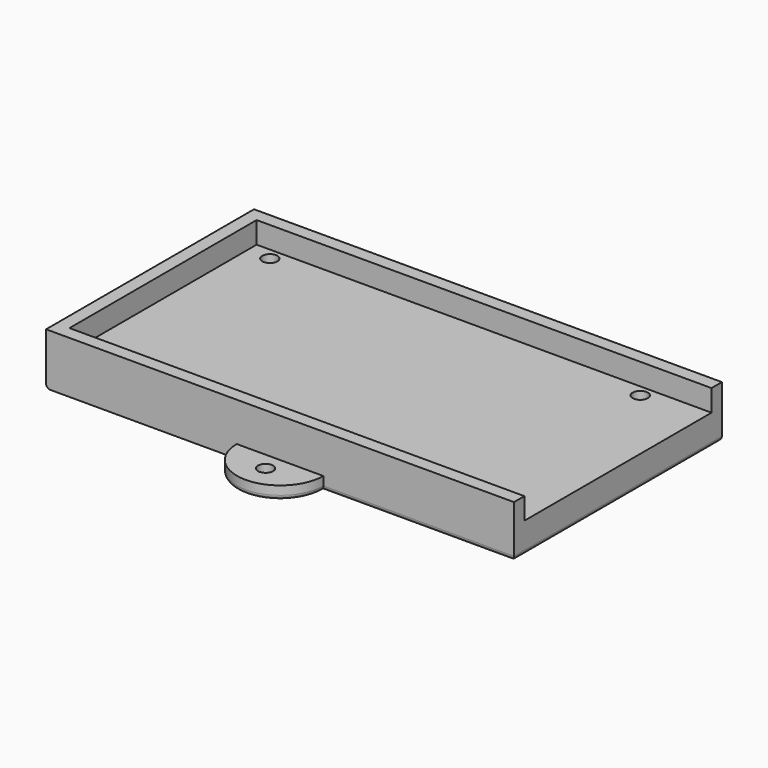
from build123d import *

# Parameters (mm, degrees)
F0_W     = 108
F0_H     = 60
F1_DEPTH = 7
F3_DEPTH = 5
F4_R     = 1.75
F5_DEPTH = 7.001
F7_DEPTH = 3
F8_R     = 1.75
F9_DEPTH = 3
F10_R    = 1


with BuildPart() as f1:
    # F0 (on Top) → F1 (new body)
    with BuildSketch(Plane.XY):
        Rectangle(F0_W, F0_H)
    extrude(amount=F1_DEPTH)

    # F2 (on face) → F3 (join)
    with BuildSketch(Plane.XY.offset(7)):
        Polygon((54, 30), (-54, 30), (-54, -30), (54, -30), (54, -27), (51, -27), (-51, -27), (-51, 27), (51, 27), (54, 27), align=None)
    extrude(amount=F3_DEPTH)

    # F4 (on face) → F5 (cut, through all)
    with BuildSketch(Plane.XY.offset(7)):
        with Locations((-45.75, 24.25)):
            Circle(F4_R)
        with Locations((39.75, 24.25)):
            Circle(F4_R)
    extrude(amount=-F5_DEPTH, mode=Mode.SUBTRACT)

    # F6 (on face) → F7 (cut)
    with BuildSketch(Plane(origin=(0, 0, 0), x_dir=(1, 0, 0), z_dir=(0, 0, -1))):
        Polygon((35.625, -21.8684301396), (35.625, -26.6315698604), (39.75, -29.0131397208), (43.875, -26.6315698604), (43.875, -21.8684301396), (39.75, -19.4868602792), align=None)
        Polygon((-49.875, -21.8684301396), (-49.875, -26.6315698604), (-45.75, -29.0131397208), (-41.625, -26.6315698604), (-41.625, -21.8684301396), (-45.75, -19.4868602792), align=None)
    extrude(amount=-F7_DEPTH, mode=Mode.SUBTRACT)

    # F8 (on Top) → F9 (join)
    with BuildSketch(Plane.XY):
        with BuildLine():
            Line((10, -30), (-10, -30))
            ThreePointArc((-10, -30), (0, -39.928586731), (10, -30))
        make_face()
        with Locations((0, -34.1783299042)):
            Circle(F8_R, mode=Mode.SUBTRACT)
        with BuildLine():
            Line((-10, 30), (10, 30))
            ThreePointArc((10, 30), (0, 40.0551036455), (-10, 30))
        make_face()
        with Locations((0, 34.25)):
            Circle(F8_R, mode=Mode.SUBTRACT)
    extrude(amount=F9_DEPTH)

    # F10
    f10_edges = [f1.edges().sort_by_distance(p)[0] for p in [
        (54, 0, 0),
        (32, -30, 0),
        (0, -39.928587, 0),
        (-54, 0, 0),
        (-32, 30, 0),
        (0, 40.055104, 0),
        (32, 30, 0),
    ]]
    fillet(f10_edges, radius=F10_R)


solid = f1.part
